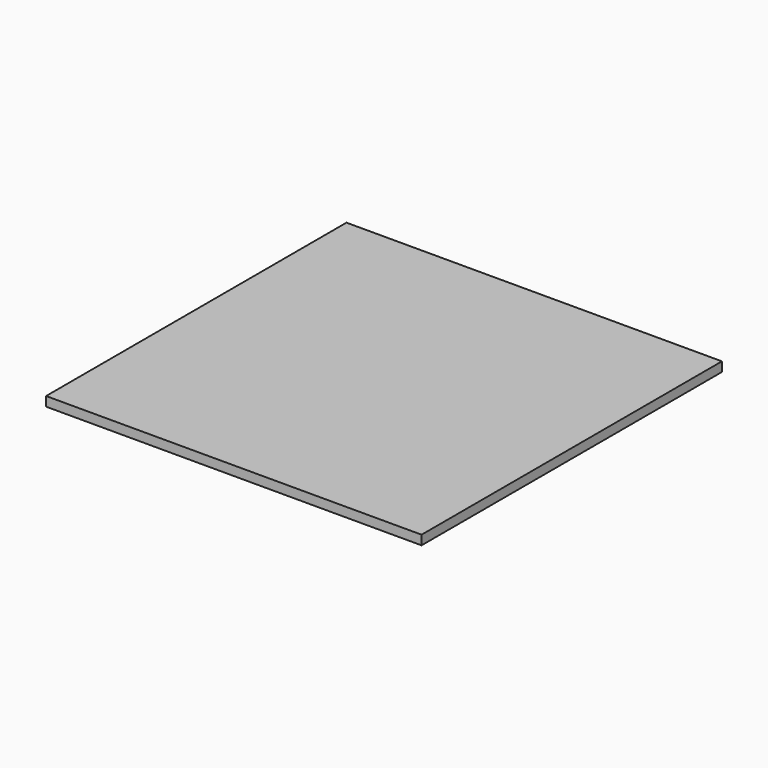
from build123d import *

# Parameters (mm, degrees)
F0_W     = 5
F0_H     = 5
F1_DEPTH = 0.1
F2_W     = 40
F2_H     = 40
F3_DEPTH = 1
F4_R     = 0.5
F5_DEPTH = 2


with BuildPart() as f1:
    # F0 (on Top) → F1 (new body)
    with BuildSketch(Plane.XY):
        with Locations((-6, 6)):
            Rectangle(F0_W, F0_H)
        with Locations((6, 6)):
            Rectangle(F0_W, F0_H)
        with Locations((6, -6)):
            Rectangle(F0_W, F0_H)
        with Locations((-6, -6)):
            Rectangle(F0_W, F0_H)
    extrude(amount=-F1_DEPTH)

    # F2 (on Top) → F3 (join)
    with BuildSketch(Plane.XY):
        Rectangle(F2_W, F2_H)
    extrude(amount=F3_DEPTH)

    # F4 (on face) → F5 (join)
    with BuildSketch(Plane(origin=(0, 0, -0.1), x_dir=(1, 0, 0), z_dir=(0, 0, -1))):
        with Locations((-7.090843, 7.180036)):
            Circle(F4_R)
        with Locations((-5.090843, 7.180036)):
            Circle(F4_R)
        with Locations((-7.090843, 4.807855)):
            Circle(F4_R)
        with Locations((-5.090843, 4.807855)):
            Circle(F4_R)
        with Locations((7.090843, 7.180036)):
            Circle(F4_R)
        with Locations((5.090843, 7.180036)):
            Circle(F4_R)
        with Locations((5.090843, 4.807855)):
            Circle(F4_R)
        with Locations((7.090843, 4.807855)):
            Circle(F4_R)
        with Locations((-7.090843, -4.807855)):
            Circle(F4_R)
        with Locations((-5.090843, -7.180036)):
            Circle(F4_R)
        with Locations((-7.090843, -7.180036)):
            Circle(F4_R)
        with Locations((-5.090843, -4.807855)):
            Circle(F4_R)
        with Locations((5.090843, -7.180036)):
            Circle(F4_R)
        with Locations((5.090843, -4.807855)):
            Circle(F4_R)
        with Locations((7.090843, -4.807855)):
            Circle(F4_R)
        with Locations((7.090843, -7.180036)):
            Circle(F4_R)
    extrude(amount=F5_DEPTH)


solid = f1.part
